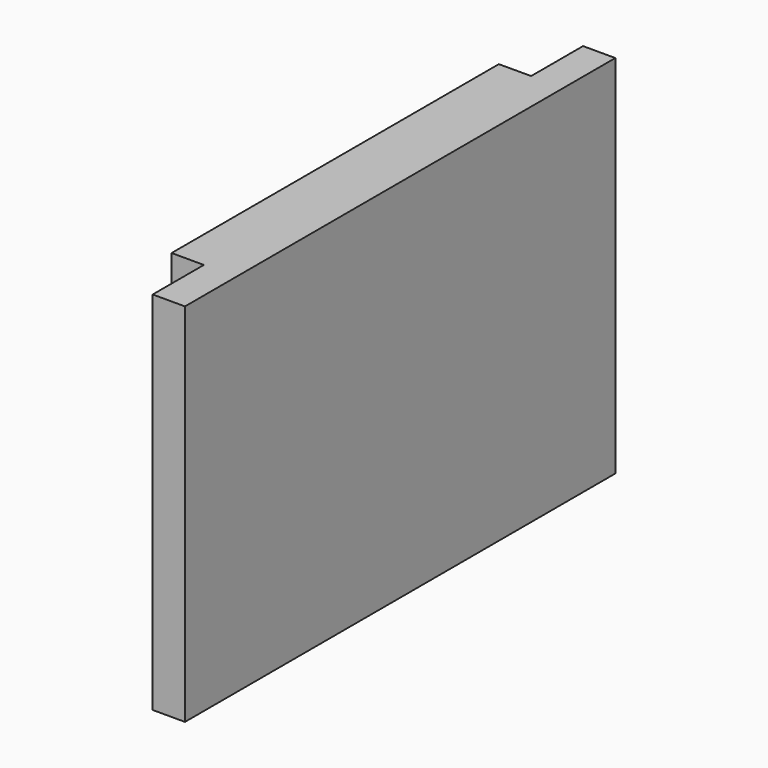
from build123d import *

# Parameters (mm, degrees)
F1_DEPTH = 100
F3_DEPTH = 6
F5_DEPTH = 6


with BuildPart() as f1:
    # F0 (on Front) → F1 (new body)
    with BuildSketch(Plane.XZ):
        Polygon((-6, -34), (6, -34), (6, 34), (-6, 34), (-6, 24), (-3, 24), (-3, 21), (-6, 21), align=None)
    extrude(amount=F1_DEPTH)

    # F2 (on face) → F3 (cut)
    with BuildSketch(Plane(origin=(-6, 0, 0), x_dir=(0, -1, 0), z_dir=(-1, 0, 0))):
        Polygon((100.127715, -34), (100.127715, 34.181964), (88.127715, 34.181964), (88.107921, 34.181964), (88.107921, -34), align=None)
    extrude(amount=-F3_DEPTH, mode=Mode.SUBTRACT)

    # F4 (on face) → F5 (cut)
    with BuildSketch(Plane(origin=(-6, 0, 0), x_dir=(0, -1, 0), z_dir=(-1, 0, 0))):
        Polygon((12.064485, 34.181964), (0.814515, 34.181964), (0, 34.181964), (0, -34), (12.064485, -34), align=None)
    extrude(amount=-F5_DEPTH, mode=Mode.SUBTRACT)


solid = f1.part
